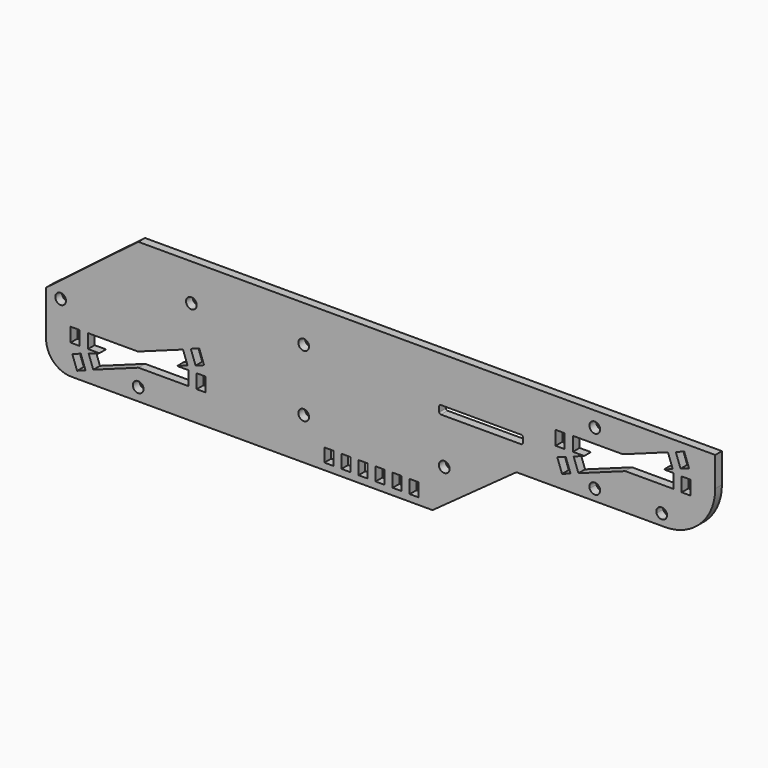
from build123d import *

# Parameters (mm, degrees)
F0_R     = 1.6
F0_W     = 2.7
F0_H     = 4
F0_H_2   = 4.2
F1_DEPTH = 2.5


with BuildPart() as f1:
    # F0 (on Front) → F1 (new body)
    with BuildSketch(Plane.XZ):
        with BuildLine():
            Line((-72.446153, 21), (-100, 0))
            Line((-100, 0), (-95.938877, 0))
            ThreePointArc((-95.938877, 0), (-95.657736, 0.024894), (-95.376595, 0))
            Line((-95.376595, 0), (0, 0))
            Line((0, 0), (0, 21))
            Line((0, 21), (-15.5, 21))
            Line((-15.5, 21), (-72.446153, 21))
        make_face()
        with Locations((-56.57779, 10)):
            Circle(F0_R, mode=Mode.SUBTRACT)
        with Locations((-23, 10)):
            Circle(F0_R, mode=Mode.SUBTRACT)
        with BuildLine():
            Line((-95.938877, 0), (-100, 0))
            Line((-100, 0), (-100, -13.5))
            ThreePointArc((-100, -13.5), (-97.803301, -18.803301), (-92.5, -21))
            Line((-92.5, -21), (0, -21))
            Line((0, -21), (0, -19))
            Line((0, -19), (-1.515, -19))
            Line((-1.515, -19), (-1.515, -15))
            Line((-1.515, -15), (0, -15))
            Line((0, -15), (0, 0))
            Line((0, 0), (-95.376595, 0))
            ThreePointArc((-95.376595, 0), (-94.430987, -0.547932), (-94.057736, -1.575106))
            ThreePointArc((-94.057736, -1.575106), (-96.68491, -2.801855), (-95.938877, 0))
        make_face()
        Polygon((-92.175341, -14.942273), (-89.638171, -14.018818), (-88.201686, -17.965527), (-90.738856, -18.888982), align=None, mode=Mode.SUBTRACT)
        with Locations((-72.47779, -17.245993)):
            Circle(F0_R, mode=Mode.SUBTRACT)
        with Locations((-15.465, -17)):
            Rectangle(F0_W, F0_H, mode=Mode.SUBTRACT)
        with Locations((-10.365, -17)):
            Rectangle(F0_W, F0_H, mode=Mode.SUBTRACT)
        with Locations((-5.265, -17)):
            Rectangle(F0_W, F0_H, mode=Mode.SUBTRACT)
        with Locations((-91.32779, -10)):
            Rectangle(F0_W, F0_H_2, mode=Mode.SUBTRACT)
        Polygon((-87.47779, -12.1), (-87.47779, -7.9), (-72.534475, -7.9), (-59.065768, -2.997792), (-57.697688, -6.756562), (-60.839257, -7.9), (-57.47779, -7.9), (-57.47779, -12.1), (-72.378662, -12.1), (-85.888466, -17.017167), (-87.256547, -13.258396), (-84.07388, -12.1), align=None, mode=Mode.SUBTRACT)
        with Locations((-53.62779, -10)):
            Rectangle(F0_W, F0_H_2, mode=Mode.SUBTRACT)
        Polygon((-56.748929, -2.048113), (-54.211759, -1.124659), (-52.775274, -5.071368), (-55.312444, -5.994822), align=None, mode=Mode.SUBTRACT)
        with Locations((-23, -8.5)):
            Circle(F0_R, mode=Mode.SUBTRACT)
        with BuildLine():
            Line((62.46032, 0), (0, 0))
            Line((0, 0), (0, -15))
            Line((0, -15), (1.185, -15))
            Line((1.185, -15), (1.185, -19))
            Line((1.185, -19), (0, -19))
            Line((0, -19), (0, -21))
            Line((0, -21), (15.5, -21))
            Line((15.5, -21), (40.587112, -2.866724))
            Line((40.587112, -2.866724), (85, -2.866724))
            ThreePointArc((85, -2.866724), (89.636856, -2.132052), (93.819502, 0))
            Line((93.819502, 0), (85.53968, 0))
            ThreePointArc((85.53968, 0), (84, -1.164814), (82.46032, 0))
            Line((82.46032, 0), (65.53968, 0))
            ThreePointArc((65.53968, 0), (64, -1.164814), (62.46032, 0))
        make_face()
        with Locations((4.935, -17)):
            Rectangle(F0_W, F0_H, mode=Mode.SUBTRACT)
        with Locations((10.035, -17)):
            Rectangle(F0_W, F0_H, mode=Mode.SUBTRACT)
        with Locations((19, -8.5)):
            Circle(F0_R, mode=Mode.SUBTRACT)
        with BuildLine():
            Line((0, 21), (0, 0))
            Line((0, 0), (62.46032, 0))
            ThreePointArc((62.46032, 0), (63.780327, 2.020034), (65.6, 0.435186))
            ThreePointArc((65.6, 0.435186), (65.584848, 0.215513), (65.53968, 0))
            Line((65.53968, 0), (82.46032, 0))
            ThreePointArc((82.46032, 0), (83.780327, 2.020034), (85.6, 0.435186))
            ThreePointArc((85.6, 0.435186), (85.584848, 0.215513), (85.53968, 0))
            Line((85.53968, 0), (93.819502, 0))
            ThreePointArc((93.819502, 0), (98.365862, 5.324918), (100, 12.133276))
            Line((100, 12.133276), (100, 21))
            Line((100, 21), (0, 21))
        make_face()
        with BuildLine():
            Line((18, 7.460512), (42, 7.460512))
            ThreePointArc((42, 7.460512), (42.353553, 7.314066), (42.5, 6.960512))
            Line((42.5, 6.960512), (42.5, 5.460512))
            ThreePointArc((42.5, 5.460512), (42.353553, 5.106959), (42, 4.960512))
            Line((42, 4.960512), (18, 4.960512))
            ThreePointArc((18, 4.960512), (17.646447, 5.106959), (17.5, 5.460512))
            Line((17.5, 5.460512), (17.5, 6.960512))
            ThreePointArc((17.5, 6.960512), (17.646447, 7.314066), (18, 7.460512))
        make_face(mode=Mode.SUBTRACT)
        Polygon((56.752226, 2.039054), (54.215056, 1.115599), (52.778572, 5.062308), (55.315742, 5.985763), align=None, mode=Mode.SUBTRACT)
        with Locations((53.62779, 10)):
            Rectangle(F0_W, F0_H_2, mode=Mode.SUBTRACT)
        Polygon((57.47779, 8), (57.47779, 12.2), (72.389218, 12.2), (85.855752, 17.101418), (87.292237, 13.154709), (84.669196, 12.2), (87.47779, 12.2), (87.47779, 8), (73.129791, 8), (59.101458, 2.894104), (57.664973, 6.840813), (60.849813, 8), align=None, mode=Mode.SUBTRACT)
        with Locations((91.32779, 10)):
            Rectangle(F0_W, F0_H_2, mode=Mode.SUBTRACT)
        with Locations((64, 16.5)):
            Circle(F0_R, mode=Mode.SUBTRACT)
        Polygon((88.204984, 17.956468), (90.742154, 18.879922), (92.178638, 14.933213), (89.641468, 14.009759), align=None, mode=Mode.SUBTRACT)
    extrude(amount=F1_DEPTH)


solid = f1.part
